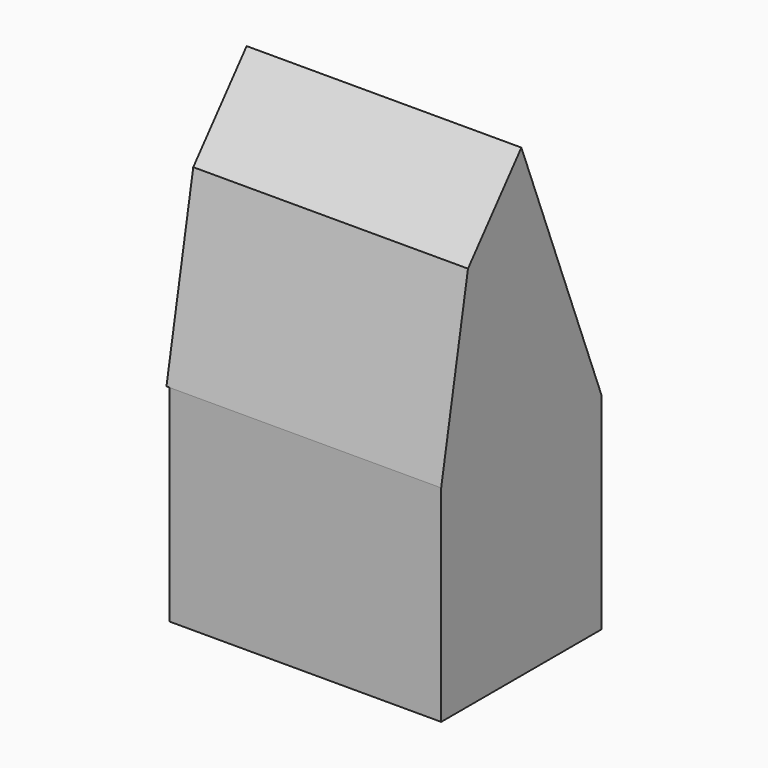
from build123d import *

# Parameters (mm, degrees)
F0_W     = 100.457862
F0_H     = 74.130222
F1_DEPTH = 76.2
F3_DEPTH = 101.6


with BuildPart() as f1:
    # F0 (on Top) → F1 (new body)
    with BuildSketch(Plane.XY):
        Rectangle(F0_W, F0_H)
    extrude(amount=F1_DEPTH)

    # F2 (on face) → F3 (join)
    with BuildSketch(Plane.YZ.offset(50.228931)):
        Polygon((37.065111, 76.2), (0, 171.921298), (-24.674638, 142.537002), (-37.065111, 76.2), align=None)
    extrude(amount=-F3_DEPTH)


solid = f1.part
